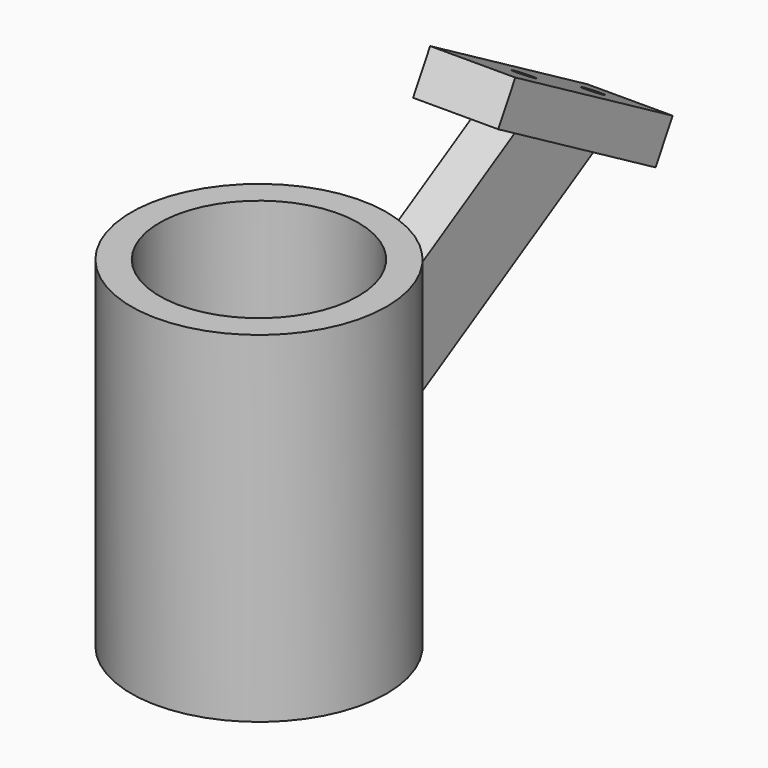
from build123d import *

# Parameters (mm, degrees)
F0_R     = 28.575
F0_R_2   = 22.225
F1_DEPTH = 76.2
F3_DEPTH = 4.7625
F4_W     = 19.05
F4_H     = 50.8
F5_DEPTH = 9.525
F6_R     = 2.286
F7_DEPTH = 25.4


with BuildPart() as f1:
    # F0 (on Top) → F1 (new body)
    with BuildSketch(Plane.XY):
        Circle(F0_R)
        Circle(F0_R_2, mode=Mode.SUBTRACT)
    extrude(amount=F1_DEPTH)

    # F2 (on Right) → F3 (join, symmetric)
    with BuildSketch(Plane.YZ):
        Polygon((0, 38.120868), (0, 12.720868), (87.988181, 63.520868), (65.991136, 76.220868), align=None)
    extrude(amount=F3_DEPTH, both=True)

    # F4 (on face) → F5 (join)
    with BuildSketch(Plane(origin=(0, 49.502388, 85.740651), x_dir=(1, 0, 0), z_dir=(0, 0.5, 0.866025))):
        with Locations((0, 31.739566)):
            Rectangle(F4_W, F4_H)
    extrude(amount=F5_DEPTH)

    # F6 (on face) → F7 (cut)
    with BuildSketch(Plane(origin=(0, 54.264888, 93.989543), x_dir=(1, 0, 0), z_dir=(0, 0.5, 0.866025))):
        with Locations((0, 22.913066)):
            Circle(F6_R)
        with Locations((0, 45.138066)):
            Circle(F6_R)
    extrude(amount=-F7_DEPTH, mode=Mode.SUBTRACT)


solid = f1.part
